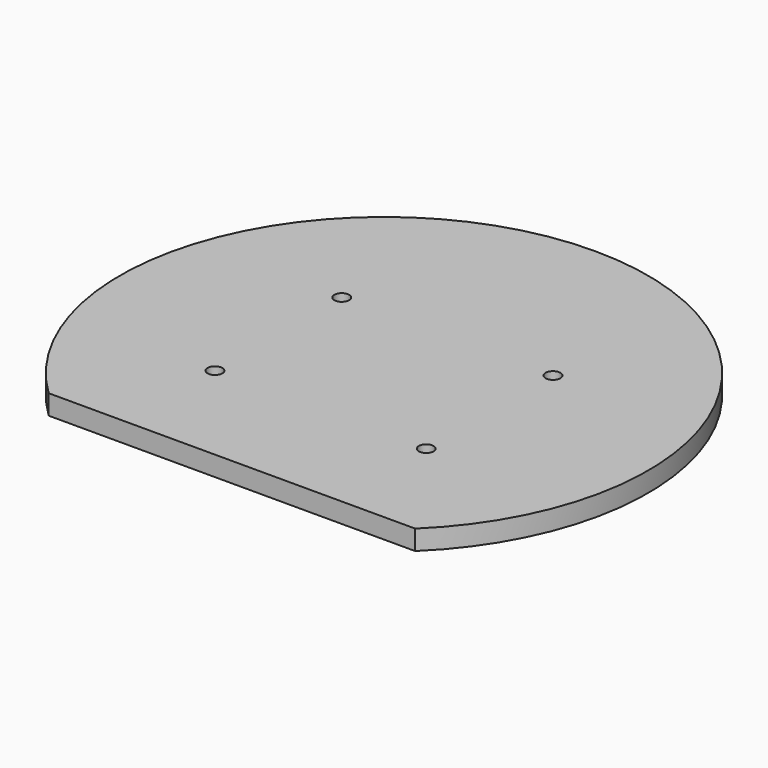
from build123d import *

# Parameters (mm, degrees)
F0_R     = 63.5
F0_R_2   = 1.778
F1_DEPTH = 4.7625
F3_DEPTH = 25.4


with BuildPart() as f1:
    # F0 (on Top) → F1 (new body)
    with BuildSketch(Plane.XY):
        Circle(F0_R)
        with Locations((-25.4, -19.05)):
            Circle(F0_R_2, mode=Mode.SUBTRACT)
        with Locations((25.4, -19.05)):
            Circle(F0_R_2, mode=Mode.SUBTRACT)
        with Locations((-25.4, 19.05)):
            Circle(F0_R_2, mode=Mode.SUBTRACT)
        with Locations((25.4, 19.05)):
            Circle(F0_R_2, mode=Mode.SUBTRACT)
    extrude(amount=F1_DEPTH)

    # F2 (on face) → F3 (cut)
    with BuildSketch(Plane.XY.offset(4.7625)):
        with BuildLine():
            Line((44.067353, -45.72), (-44.067353, -45.72))
            ThreePointArc((-44.067353, -45.72), (0, -63.5), (44.067353, -45.72))
        make_face()
    extrude(amount=-F3_DEPTH, mode=Mode.SUBTRACT)


solid = f1.part
